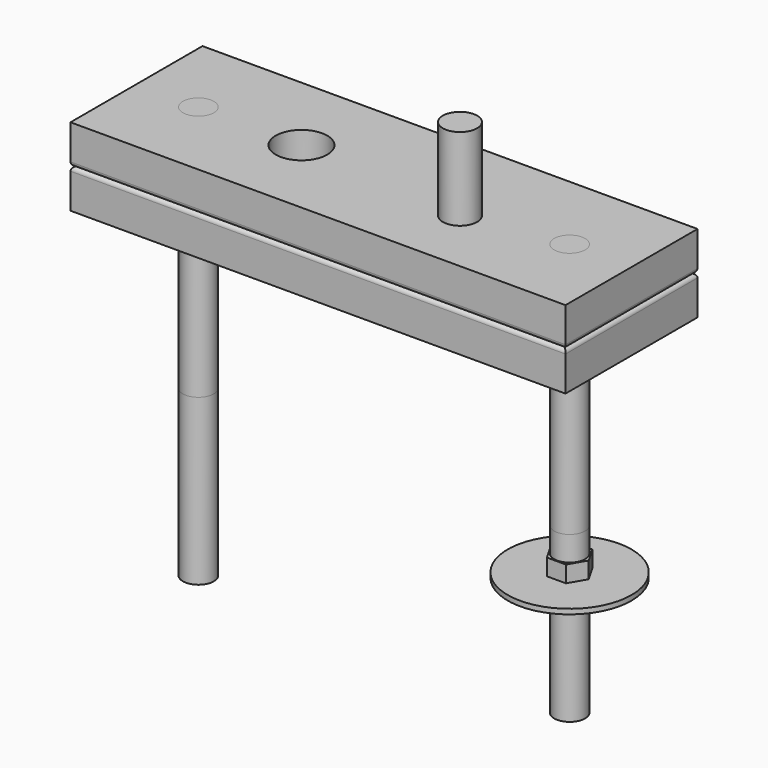
from build123d import *

# Parameters (mm, degrees)
F0_W      = 152.4
F0_H      = 50.8
F0_R      = 4.7625
F0_R_2    = 7.9375
F1_DEPTH  = 11.9888
F2_R      = 1.27
F4_R      = 4.7625
F5_DEPTH  = 76.2
F6_R      = 4.7625
F7_DEPTH  = 50.8
F9_R      = 19.05
F10_DEPTH = 1.524
F12_DEPTH = 5.08
F14_DEPTH = 5.08
F15_R     = 5.2764150672
F16_DEPTH = 25.4


with BuildPart() as f1:
    # F0 (on Top) → F1 (new body)
    with BuildSketch(Plane.XY):
        Rectangle(F0_W, F0_H)
        with Locations((-57.15, 0)):
            Circle(F0_R, mode=Mode.SUBTRACT)
        with Locations((-25.4, 0)):
            Circle(F0_R_2, mode=Mode.SUBTRACT)
        with Locations((57.15, 0)):
            Circle(F0_R, mode=Mode.SUBTRACT)
    extrude(amount=F1_DEPTH)

    # F2
    f2_edges = [f1.edges().sort_by_distance(p)[0] for p in [
        (0, 25.4, 0),
        (-76.2, 0, 0),
        (0, -25.4, 0),
        (76.2, 0, 0),
    ]]
    fillet(f2_edges, radius=F2_R)

    # F3: F1 across plane


with BuildPart() as f1_1:
    add(f1.part)
    add(f1.part.mirror(Plane.XY))

    # F4 (on face) → F5 (join)
    with BuildSketch(Plane.XY.offset(11.9888)):
        with Locations((-57.15, 0)):
            Circle(F4_R)
        with Locations((57.15, 0)):
            Circle(F4_R)
    extrude(amount=-F5_DEPTH)

    # F6 (on face) → F7 (join)
    with BuildSketch(Plane(origin=(0, 0, -64.2112), x_dir=(1, 0, 0), z_dir=(0, 0, -1))):
        with Locations((57.15, 0)):
            Circle(F6_R)
        with Locations((-57.15, 0)):
            Circle(F6_R)
    extrude(amount=F7_DEPTH)

    # F9 (on offset) → F10 (join)
    with BuildSketch(Plane(origin=(0, 0, -76.9112), x_dir=(1, 0, 0), z_dir=(0, 0, -1))):
        with Locations((57.15, 0)):
            Circle(F9_R)
    extrude(amount=F10_DEPTH)

    # F11 (on face) → F12 (join)
    with BuildSketch(Plane(origin=(0, 0, -78.4352), x_dir=(1, 0, 0), z_dir=(0, 0, -1))):
        Polygon((63.5, 3.6661742094), (57.15, 7.3323484187), (50.8, 3.6661742094), (50.8, -3.6661742094), (57.15, -7.3323484187), (63.5, -3.6661742094), align=None)
    extrude(amount=F12_DEPTH)

    # F13 (on face) → F14 (join)
    with BuildSketch(Plane.XY.offset(-76.9112)):
        Polygon((60.0829393675, -5.08), (63.015878735, 0), (60.0829393675, 5.08), (54.2170606325, 5.08), (51.284121265, 0), (54.2170606325, -5.08), align=None)
    extrude(amount=F14_DEPTH)

    # F15 (on face) → F16 (join)
    with BuildSketch(Plane.XY.offset(11.9888)):
        with Locations((27.2953044623, -4.8705367371)):
            Circle(F15_R)
    extrude(amount=F16_DEPTH)


solid = f1_1.part
